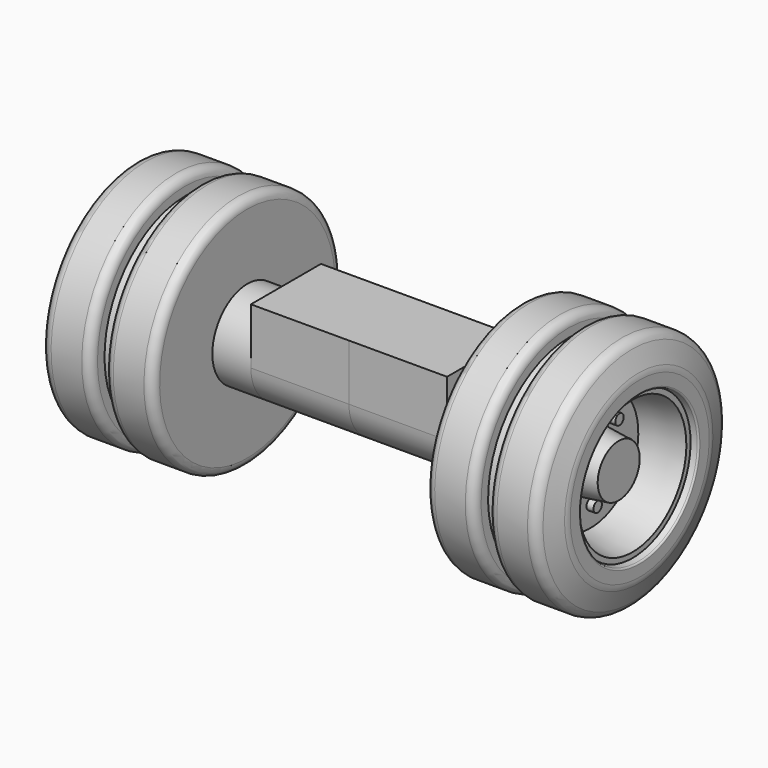
from build123d import *

# Parameters (mm, degrees)
F2_R     = 0.15
F3_DEPTH = 0.2
F4_COUNT = 8
F6_DEPTH = 2.8


with BuildPart() as f1:
    # F0 (on Front) → F1 (revolve)
    with BuildSketch(Plane.XZ):
        with BuildLine():
            Line((-3.9, 0), (0, 0))
            Line((0, 0), (0, 0.75))
            Line((0, 0.75), (-0.8, 0.848228))
            Line((-0.8, 0.848228), (-0.8, 1.7))
            Line((-0.8, 1.7), (0.4, 1.915))
            Line((0.4, 1.915), (0.4, 2.065907))
            Line((0.4, 2.065907), (0.560396, 2.1))
            ThreePointArc((0.560396, 2.1), (0.588857, 2.117441), (0.6, 2.148907))
            Line((0.6, 2.148907), (0.6, 2.48))
            ThreePointArc((0.6, 2.48), (0.592799, 2.564551), (0.571405, 2.646667))
            Line((0.571405, 2.646667), (0.382843, 3.18))
            ThreePointArc((0.382843, 3.18), (0.273205, 3.324949), (0.1, 3.38))
            Line((0.1, 3.38), (-0.775, 3.38))
            ThreePointArc((-0.775, 3.38), (-0.951777, 3.306777), (-1.025, 3.13))
            Line((-1.025, 3.13), (-1.025, 2.88))
            Line((-1.025, 2.88), (-1.425, 2.88))
            Line((-1.425, 2.88), (-1.425, 3.13))
            ThreePointArc((-1.425, 3.13), (-1.498223, 3.306777), (-1.675, 3.38))
            Line((-1.675, 3.38), (-2.55, 3.38))
            ThreePointArc((-2.55, 3.38), (-2.726777, 3.306777), (-2.8, 3.13))
            Line((-2.8, 3.13), (-2.8, 1.25))
            Line((-2.8, 1.25), (-3.9, 1.25))
            Line((-3.9, 1.25), (-3.9, 0))
        make_face()
    revolve(axis=Axis((-18.178367, 0, 0), (-1, 0, 0)))

    # F2 (on face) → F3 (join)
    with BuildSketch(Plane.YZ.offset(-0.8)):
        with Locations((0, 1.1)):
            Circle(F2_R)
    extrude(amount=F3_DEPTH)

    # F4: F1 ×8 about axis
    f4_axis = Axis((0.1, 0, 0), (-1, 0, 0))


with BuildPart() as f1_1:
    add(f1.part)
    for i in range(1, F4_COUNT):
        add(f1.part.rotate(f4_axis, i * 360 / F4_COUNT))

    # F5 (on face) → F6 (join)
    with BuildSketch(Plane(origin=(-3.9, 0, 0), x_dir=(0, -1, 0), z_dir=(-1, 0, 0))):
        with BuildLine():
            Line((-1.25, 1.6), (-1.25, 0))
            ThreePointArc((-1.25, 0), (0, -1.25), (1.25, 0))
            Line((1.25, 0), (1.25, 1.6))
            Line((1.25, 1.6), (-1.25, 1.6))
        make_face()
    extrude(amount=F6_DEPTH)

    # F7: F1 across face


with BuildPart() as f1_2:
    add(f1_1.part)
    add(f1_1.part.mirror(Plane(origin=(-6.7, 0, 0.294051), x_dir=(0, -1, 0), z_dir=(-1, 0, 0))))


solid = f1_2.part
